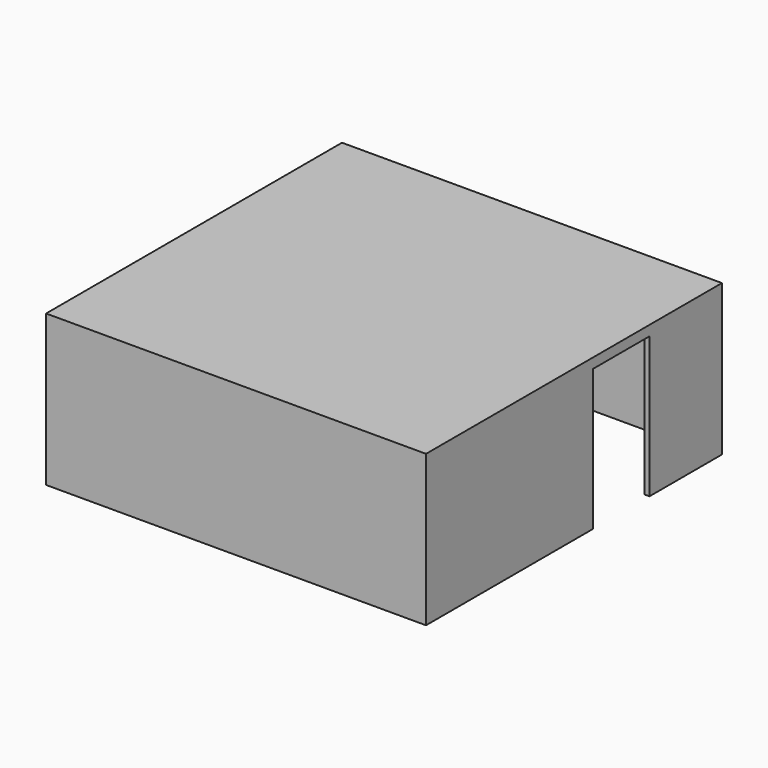
from build123d import *

# Parameters (mm, degrees)
F0_W     = 37.75
F0_H     = 36.75
F1_DEPTH = 15
F3_DEPTH = 14
F4_W     = 7
F4_H     = 14
F5_DEPTH = 5
F6_W     = 10
F6_H     = 14
F7_DEPTH = 3


with BuildPart() as f1:
    # F0 (on Top) → F1 (new body)
    with BuildSketch(Plane.XY):
        with Locations((8.636272, 5.505883)):
            Rectangle(F0_W, F0_H)
    extrude(amount=F1_DEPTH)

    # F2 (on face) → F3 (cut)
    with BuildSketch(Plane(origin=(0, 0, 0), x_dir=(1, 0, 0), z_dir=(0, 0, -1))):
        Polygon((-9.738728, -23.380883), (27.011272, -23.380883), (27.011272, 5.682816), (27.011272, 8.965187), (27.011272, 12.369117), (-9.738728, 12.369117), (-9.738728, -10.72904), (-9.738728, -14.316749), align=None)
    extrude(amount=-F3_DEPTH, mode=Mode.SUBTRACT)

    # F4 (on face) → F5 (cut)
    with BuildSketch(Plane.YZ.offset(27.511272)):
        with Locations((11.380883, 7)):
            Rectangle(F4_W, F4_H)
    extrude(amount=-F5_DEPTH, mode=Mode.SUBTRACT)

    # F6 (on face) → F7 (cut)
    with BuildSketch(Plane(origin=(-10.238728, 0, 0), x_dir=(0, -1, 0), z_dir=(-1, 0, 0))):
        with Locations((-2.880883, 7)):
            Rectangle(F6_W, F6_H)
    extrude(amount=-F7_DEPTH, mode=Mode.SUBTRACT)


solid = f1.part
